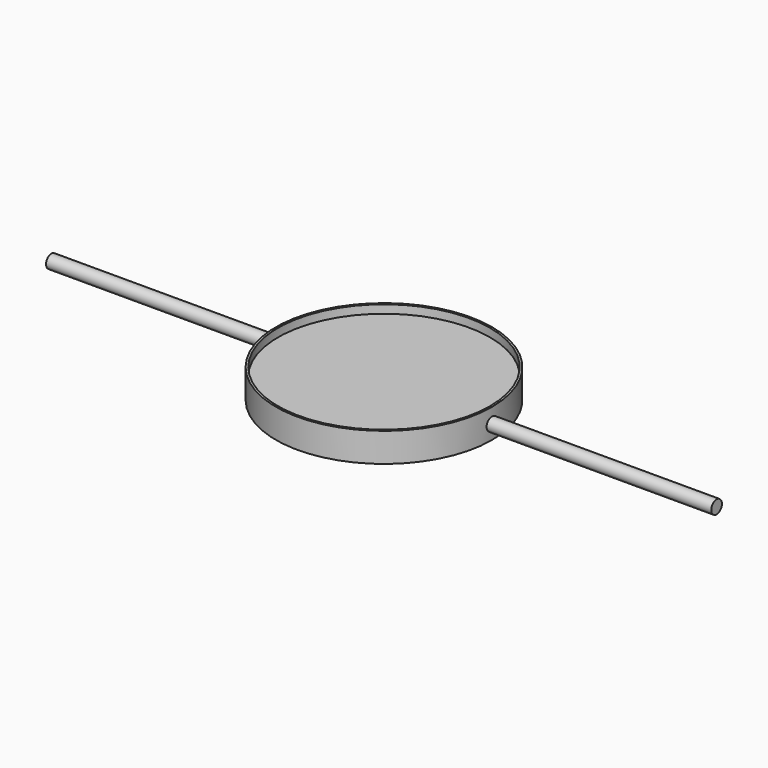
from build123d import *

# Parameters (mm, degrees)
F0_R          = 16.51
F1_DEPTH      = 3.175
F2_R          = 16.51
F2_R_2        = 16.1925
F3_DEPTH      = 1.27
F4_R          = 1.016
F5_DEPTH      = 50.8
F5_DEPTH_BACK = 50.8


with BuildPart() as f1:
    # F0 (on Top) → F1 (new body)
    with BuildSketch(Plane.XY):
        Circle(F0_R)
    extrude(amount=F1_DEPTH)

    # F2 (on face) → F3 (join)
    with BuildSketch(Plane.XY.offset(3.175)):
        Circle(F2_R)
        Circle(F2_R_2, mode=Mode.SUBTRACT)
    extrude(amount=F3_DEPTH)

    # F4 (on Right) → F5 (join, two sides)
    with BuildSketch(Plane.YZ) as f5_sk:
        with Locations((0, 2.159)):
            Circle(F4_R)
    extrude(amount=F5_DEPTH)
    extrude(f5_sk.sketch, amount=-F5_DEPTH_BACK)


solid = f1.part
